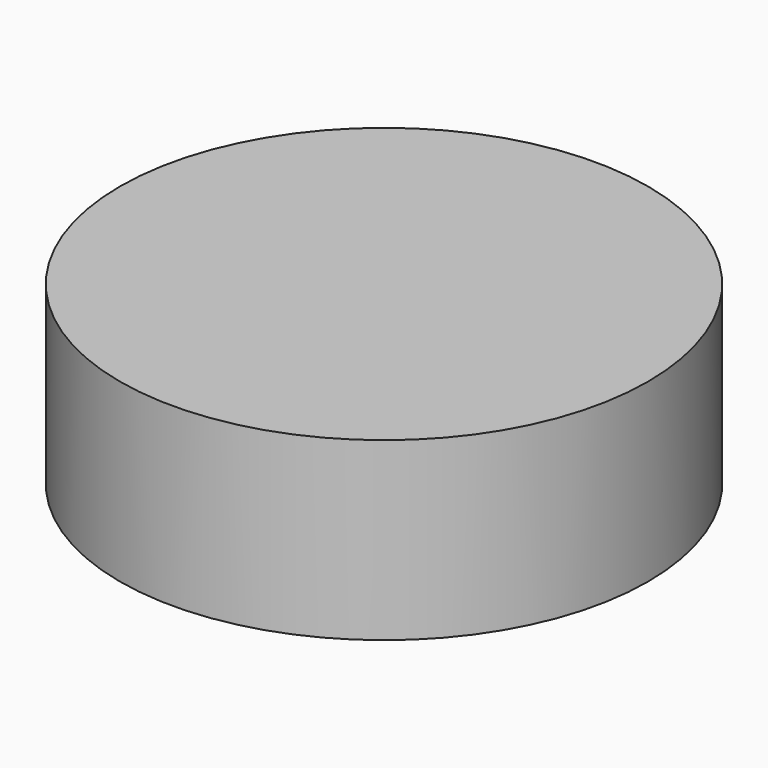
from build123d import *

# Parameters (mm, degrees)
SKETCH_R  = 30
PAD_DEPTH = 20


with BuildPart() as part:
    # Sketch → Pad (new body)
    with BuildSketch(Plane.XY):
        Circle(SKETCH_R)
    extrude(amount=PAD_DEPTH)


solid = part.part
